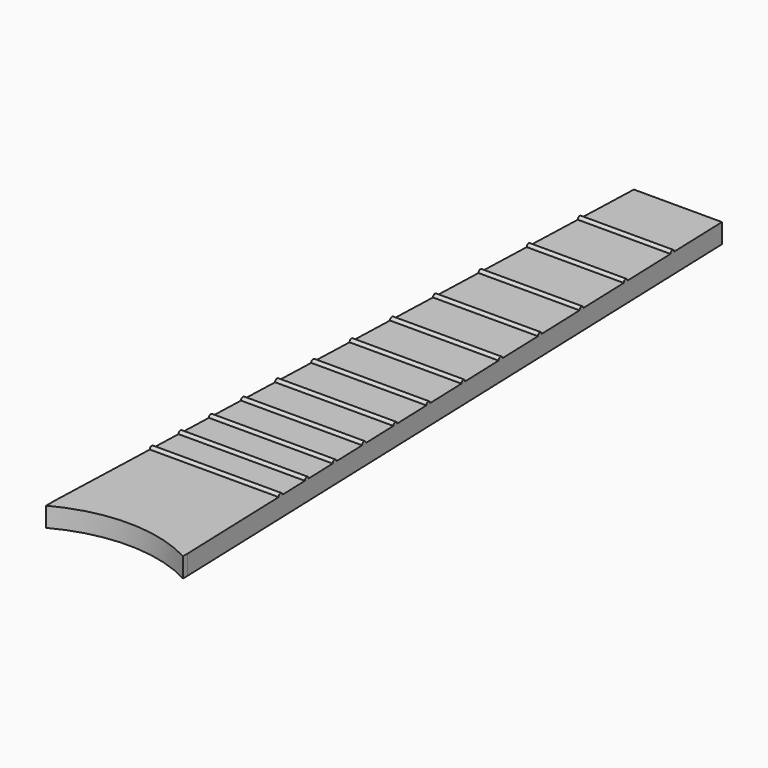
from build123d import *

# Parameters (mm, degrees)
F0_W     = 44.45
F0_H     = 228.6
F1_DEPTH = 6.35
F3_DEPTH = 44.45
F5_DEPTH = 12.7
F7_DEPTH = 25.4


with BuildPart() as f1:
    # F0 (on Top) → F1 (new body)
    with BuildSketch(Plane.XY):
        with Locations((0, -114.3)):
            Rectangle(F0_W, F0_H)
    extrude(amount=-F1_DEPTH)

    # F2 (on face) → F3 (join)
    with BuildSketch(Plane.YZ.offset(22.225)):
        with BuildLine():
            ThreePointArc((-21.82495, 0), (-21.592466, -0.561266), (-21.0312, -0.79375))
            Line((-21.0312, -0.79375), (-21.0312, 0))
            Line((-21.0312, 0), (-21.82495, 0))
        make_face()
        with BuildLine():
            Line((-21.0312, 0), (-21.0312, -0.79375))
            ThreePointArc((-21.0312, -0.79375), (-20.469934, -0.561266), (-20.23745, 0))
            Line((-20.23745, 0), (-21.0312, 0))
        make_face()
        with BuildLine():
            ThreePointArc((-41.66235, 0), (-41.429866, -0.561266), (-40.8686, -0.79375))
            Line((-40.8686, -0.79375), (-40.8686, 0))
            Line((-40.8686, 0), (-41.66235, 0))
        make_face()
        with BuildLine():
            Line((-40.8686, 0), (-40.8686, -0.79375))
            ThreePointArc((-40.8686, -0.79375), (-40.307334, -0.561266), (-40.07485, 0))
            Line((-40.07485, 0), (-40.8686, 0))
        make_face()
        with BuildLine():
            ThreePointArc((-60.40755, 0), (-60.175066, -0.561266), (-59.6138, -0.79375))
            Line((-59.6138, -0.79375), (-59.6138, 0))
            Line((-59.6138, 0), (-60.40755, 0))
        make_face()
        with BuildLine():
            Line((-59.6138, 0), (-59.6138, -0.79375))
            ThreePointArc((-59.6138, -0.79375), (-59.052534, -0.561266), (-58.82005, 0))
            Line((-58.82005, 0), (-59.6138, 0))
        make_face()
        with BuildLine():
            ThreePointArc((-78.08595, 0), (-77.853466, -0.561266), (-77.2922, -0.79375))
            Line((-77.2922, -0.79375), (-77.2922, 0))
            Line((-77.2922, 0), (-78.08595, 0))
        make_face()
        with BuildLine():
            Line((-77.2922, 0), (-77.2922, -0.79375))
            ThreePointArc((-77.2922, -0.79375), (-76.730934, -0.561266), (-76.49845, 0))
            Line((-76.49845, 0), (-77.2922, 0))
        make_face()
        with BuildLine():
            ThreePointArc((-94.77375, 0), (-94.541266, -0.561266), (-93.98, -0.79375))
            Line((-93.98, -0.79375), (-93.98, 0))
            Line((-93.98, 0), (-94.77375, 0))
        make_face()
        with BuildLine():
            Line((-93.98, 0), (-93.98, -0.79375))
            ThreePointArc((-93.98, -0.79375), (-93.418734, -0.561266), (-93.18625, 0))
            Line((-93.18625, 0), (-93.98, 0))
        make_face()
        with BuildLine():
            ThreePointArc((-110.52175, 0), (-110.289266, -0.561266), (-109.728, -0.79375))
            Line((-109.728, -0.79375), (-109.728, 0))
            Line((-109.728, 0), (-110.52175, 0))
        make_face()
        with BuildLine():
            Line((-109.728, 0), (-109.728, -0.79375))
            ThreePointArc((-109.728, -0.79375), (-109.166734, -0.561266), (-108.93425, 0))
            Line((-108.93425, 0), (-109.728, 0))
        make_face()
        with BuildLine():
            ThreePointArc((-125.40615, 0), (-125.173666, -0.561266), (-124.6124, -0.79375))
            Line((-124.6124, -0.79375), (-124.6124, 0))
            Line((-124.6124, 0), (-125.40615, 0))
        make_face()
        with BuildLine():
            Line((-124.6124, 0), (-124.6124, -0.79375))
            ThreePointArc((-124.6124, -0.79375), (-124.051134, -0.561266), (-123.81865, 0))
            Line((-123.81865, 0), (-124.6124, 0))
        make_face()
        with BuildLine():
            ThreePointArc((-139.42695, 0), (-139.194466, -0.561266), (-138.6332, -0.79375))
            Line((-138.6332, -0.79375), (-138.6332, 0))
            Line((-138.6332, 0), (-139.42695, 0))
        make_face()
        with BuildLine():
            Line((-138.6332, 0), (-138.6332, -0.79375))
            ThreePointArc((-138.6332, -0.79375), (-138.071934, -0.561266), (-137.83945, 0))
            Line((-137.83945, 0), (-138.6332, 0))
        make_face()
        with BuildLine():
            ThreePointArc((-152.68575, 0), (-152.453266, -0.561266), (-151.892, -0.79375))
            Line((-151.892, -0.79375), (-151.892, 0))
            Line((-151.892, 0), (-152.68575, 0))
        make_face()
        with BuildLine():
            Line((-151.892, 0), (-151.892, -0.79375))
            ThreePointArc((-151.892, -0.79375), (-151.330734, -0.561266), (-151.09825, 0))
            Line((-151.09825, 0), (-151.892, 0))
        make_face()
        with BuildLine():
            ThreePointArc((-165.18255, 0), (-164.950066, -0.561266), (-164.3888, -0.79375))
            Line((-164.3888, -0.79375), (-164.3888, 0))
            Line((-164.3888, 0), (-165.18255, 0))
        make_face()
        with BuildLine():
            Line((-164.3888, 0), (-164.3888, -0.79375))
            ThreePointArc((-164.3888, -0.79375), (-163.827534, -0.561266), (-163.59505, 0))
            Line((-163.59505, 0), (-164.3888, 0))
        make_face()
        with BuildLine():
            ThreePointArc((-176.96815, 0), (-176.735666, -0.561266), (-176.1744, -0.79375))
            Line((-176.1744, -0.79375), (-176.1744, 0))
            Line((-176.1744, 0), (-176.96815, 0))
        make_face()
        with BuildLine():
            Line((-176.1744, 0), (-176.1744, -0.79375))
            ThreePointArc((-176.1744, -0.79375), (-175.613134, -0.561266), (-175.38065, 0))
            Line((-175.38065, 0), (-176.1744, 0))
        make_face()
        with BuildLine():
            ThreePointArc((-188.11875, 0), (-187.886266, -0.561266), (-187.325, -0.79375))
            Line((-187.325, -0.79375), (-187.325, 0))
            Line((-187.325, 0), (-188.11875, 0))
        make_face()
        with BuildLine():
            Line((-187.325, 0), (-187.325, -0.79375))
            ThreePointArc((-187.325, -0.79375), (-186.763734, -0.561266), (-186.53125, 0))
            Line((-186.53125, 0), (-187.325, 0))
        make_face()
        with BuildLine():
            Line((-40.8686, 0), (-40.07485, 0))
            ThreePointArc((-40.07485, 0), (-40.8686, 0.79375), (-41.66235, 0))
            Line((-41.66235, 0), (-40.8686, 0))
        make_face()
        with BuildLine():
            Line((-59.6138, 0), (-58.82005, 0))
            ThreePointArc((-58.82005, 0), (-59.6138, 0.79375), (-60.40755, 0))
            Line((-60.40755, 0), (-59.6138, 0))
        make_face()
        with BuildLine():
            Line((-77.2922, 0), (-76.49845, 0))
            ThreePointArc((-76.49845, 0), (-77.2922, 0.79375), (-78.08595, 0))
            Line((-78.08595, 0), (-77.2922, 0))
        make_face()
        with BuildLine():
            Line((-93.98, 0), (-93.18625, 0))
            ThreePointArc((-93.18625, 0), (-93.98, 0.79375), (-94.77375, 0))
            Line((-94.77375, 0), (-93.98, 0))
        make_face()
        with BuildLine():
            Line((-109.728, 0), (-108.93425, 0))
            ThreePointArc((-108.93425, 0), (-109.728, 0.79375), (-110.52175, 0))
            Line((-110.52175, 0), (-109.728, 0))
        make_face()
        with BuildLine():
            Line((-124.6124, 0), (-123.81865, 0))
            ThreePointArc((-123.81865, 0), (-124.6124, 0.79375), (-125.40615, 0))
            Line((-125.40615, 0), (-124.6124, 0))
        make_face()
        with BuildLine():
            Line((-138.6332, 0), (-137.83945, 0))
            ThreePointArc((-137.83945, 0), (-138.6332, 0.79375), (-139.42695, 0))
            Line((-139.42695, 0), (-138.6332, 0))
        make_face()
        with BuildLine():
            Line((-151.892, 0), (-151.09825, 0))
            ThreePointArc((-151.09825, 0), (-151.892, 0.79375), (-152.68575, 0))
            Line((-152.68575, 0), (-151.892, 0))
        make_face()
        with BuildLine():
            Line((-164.3888, 0), (-163.59505, 0))
            ThreePointArc((-163.59505, 0), (-164.3888, 0.79375), (-165.18255, 0))
            Line((-165.18255, 0), (-164.3888, 0))
        make_face()
        with BuildLine():
            Line((-176.1744, 0), (-175.38065, 0))
            ThreePointArc((-175.38065, 0), (-176.1744, 0.79375), (-176.96815, 0))
            Line((-176.96815, 0), (-176.1744, 0))
        make_face()
        with BuildLine():
            Line((-187.325, 0), (-186.53125, 0))
            ThreePointArc((-186.53125, 0), (-187.325, 0.79375), (-188.11875, 0))
            Line((-188.11875, 0), (-187.325, 0))
        make_face()
        with BuildLine():
            Line((-21.82495, 0), (-21.0312, 0))
            Line((-21.0312, 0), (-20.23745, 0))
            ThreePointArc((-20.23745, 0), (-21.0312, 0.79375), (-21.82495, 0))
        make_face()
    extrude(amount=-F3_DEPTH)

    # F4 (on Top) → F5 (cut, symmetric)
    with BuildSketch(Plane.XY):
        Polygon((22.286486, 0), (14.2875, 0), (22.286486, -228.6), align=None)
        Polygon((-14.2875, 0), (-22.363186, 0), (-22.363186, -228.6), align=None)
    extrude(amount=F5_DEPTH, both=True, mode=Mode.SUBTRACT)

    # F6 (on face) → F7 (cut)
    with BuildSketch(Plane.XY):
        with BuildLine():
            Line((-22.225, -228.6), (22.225, -228.6))
            ThreePointArc((22.225, -228.6), (0, -222.991998), (-22.225, -228.6))
        make_face()
    extrude(amount=-F7_DEPTH, mode=Mode.SUBTRACT)


solid = f1.part
